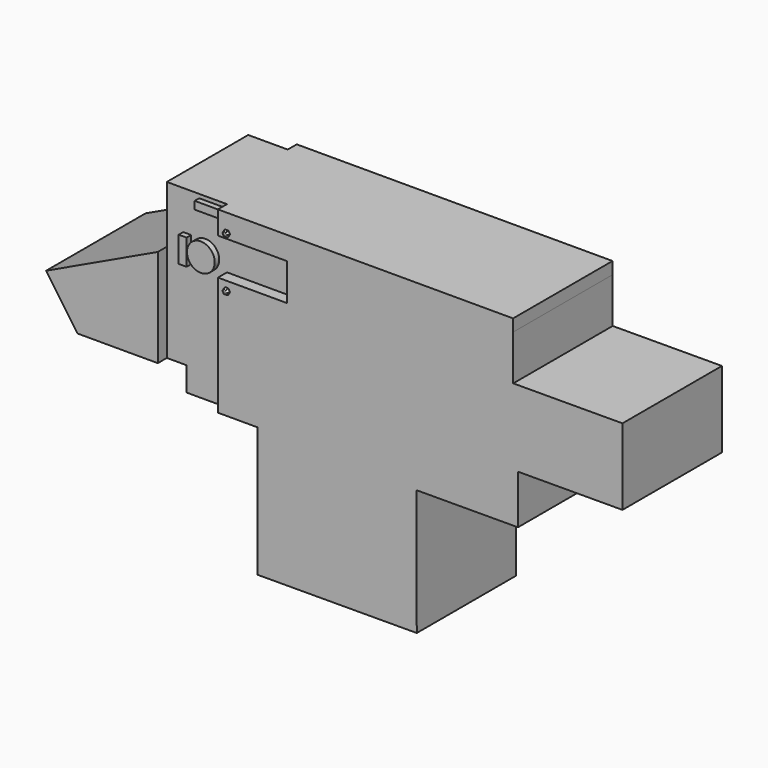
from build123d import *

# Parameters (mm, degrees)
F1_DEPTH = 5.5
F2_W     = 1.747264
F2_H     = 0.5
F2_W_2   = 2.660204
F3_DEPTH = 25
F4_W     = 3.051504
F4_H     = 1.634434
F5_DEPTH = 0.5
F6_R     = 0.613882
F6_W     = 0.346699
F6_H     = 1.139151
F6_W_2   = 1.22809
F6_H_2   = 0.341659
F7_DEPTH = 0.25
F9_DEPTH = 0.125
F10_R    = 0.1


with BuildPart() as f1:
    # F0 (on Front) → F1 (new body)
    with BuildSketch(Plane.XZ):
        Polygon((-7.807526, 2.338965), (-12.75, 0), (-11.363133, -1.99297), (-6.944289, -1.99297), (-6.944289, -3.057505), (-3.40048, -3.057505), (-3.40048, -8.799218), (3.6498, -8.777764), (3.63288, -3.217265), (7.91198, -3.204243), (8.126297, -3.204243), (8.126297, -1.036535), (12.75, -1.022465), (12.75, 2.348977), (7.918047, 2.334274), (7.91198, 4.327958), (7.910354, 4.862492), (6.47919, 4.862492), (-7.807526, 4.862492), (-7.807526, 3.205703), align=None)
    extrude(amount=F1_DEPTH)

    # F2 (on face) → F3 (cut)
    with BuildSketch(Plane.XY.offset(4.862492)):
        with Locations((-6.933894, -0.25)):
            Rectangle(F2_W, F2_H)
        with Locations((-6.477424, -5.25)):
            Rectangle(F2_W_2, F2_H)
    extrude(amount=-F3_DEPTH, mode=Mode.SUBTRACT)

    # F4 (on face) → F5 (cut)
    with BuildSketch(Plane.XZ.offset(5.5)):
        with Locations((-3.62157, 3.023124)):
            Rectangle(F4_W, F4_H)
    extrude(amount=-F5_DEPTH, mode=Mode.SUBTRACT)

    # F6 (on face) → F7 (join)
    with BuildSketch(Plane.XZ.offset(5)):
        with Locations((-6.103006, 2.588122)):
            Circle(F6_R)
        with Locations((-6.90784, 2.57574)):
            Rectangle(F6_W, F6_H)
        with Locations((-5.761367, 4.522246)):
            Rectangle(F6_W_2, F6_H_2)
    extrude(amount=F7_DEPTH)

    # F8 (on face) → F9 (join)
    with BuildSketch(Plane.XZ.offset(5.5)):
        Polygon((-4.826936, 3.937273), (-4.682599, 3.937712), (-4.610811, 4.062931), (-4.68336, 4.187711), (-4.827697, 4.187272), (-4.899485, 4.062053), align=None)
        Polygon((-4.827317, 1.687492), (-4.682979, 1.687492), (-4.61081, 1.812492), (-4.682979, 1.937492), (-4.827317, 1.937492), (-4.899485, 1.812492), align=None)
    extrude(amount=F9_DEPTH)

    # F10
    f10_edges = [f1.edges().sort_by_distance(p)[0] for p in [
        (-4.863591, -5.625, 4.124663),
        (-4.86321, -5.625, 3.999663),
        (-4.754767, -5.625, 3.937493),
        (-4.647085, -5.625, 4.125321),
        (-4.755528, -5.625, 4.187492),
        (-4.646705, -5.625, 4.000322),
        (-4.755148, -5.625, 1.937492),
        (-4.646895, -5.625, 1.874992),
        (-4.646895, -5.625, 1.749992),
        (-4.755148, -5.625, 1.687492),
        (-4.863401, -5.625, 1.749992),
        (-4.863401, -5.625, 1.874992),
    ]]
    fillet(f10_edges, radius=F10_R)


solid = f1.part
